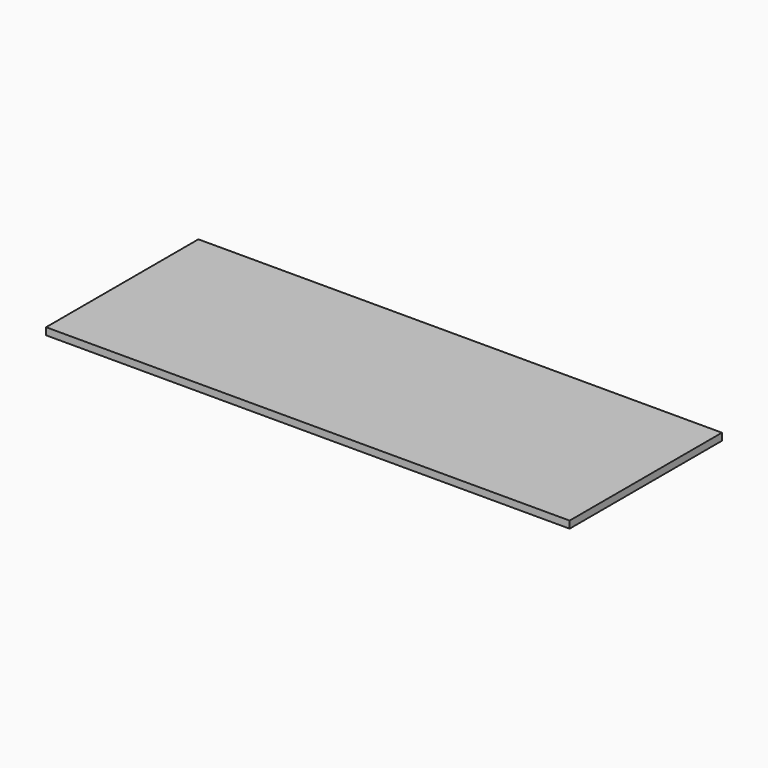
from build123d import *

# Parameters (mm, degrees)
SKETCH_W  = 2200
SKETCH_H  = 800
PAD_DEPTH = 15


with BuildPart() as part:
    # Sketch → Pad (new body, symmetric)
    with BuildSketch(Plane.XY):
        Rectangle(SKETCH_W, SKETCH_H)
    extrude(amount=PAD_DEPTH, both=True)


solid = part.part
